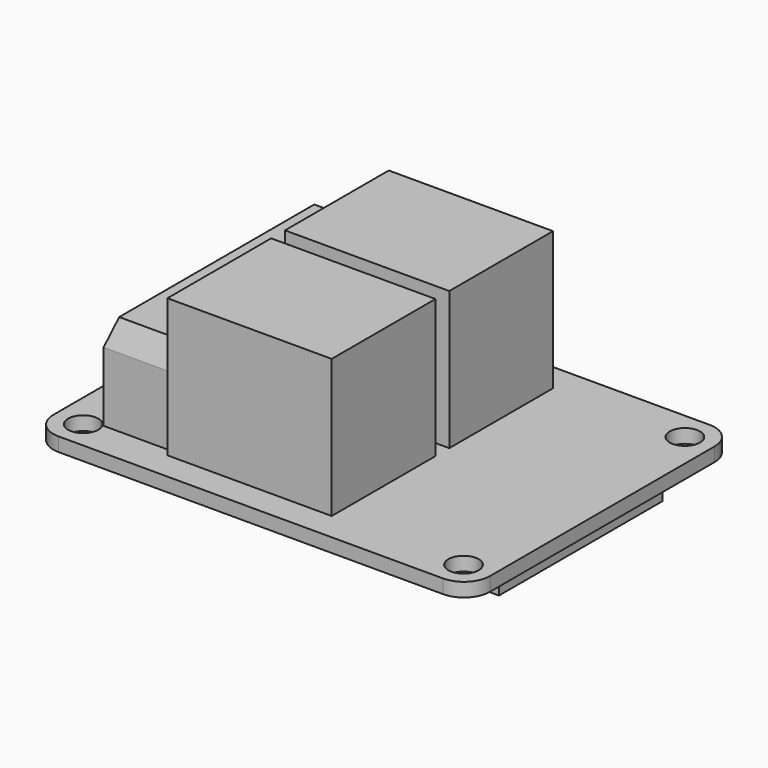
from build123d import *

# Parameters (mm, degrees)
F1_START = 3
F0_W     = 50.5
F0_H     = 38.5
F0_R     = 1.75
F1_DEPTH = 1.6
F2_R     = 3
F3_W     = 15.5
F3_H     = 23.6333997347
F4_DEPTH = 3
F5_W     = 19
F5_H     = 15
F6_DEPTH = 16
F5_W_2   = 7.6
F5_H_2   = 30.2
F7_DEPTH = 11
F8_SIZE2 = 3
F8_SIZE  = 1


with BuildPart() as f1:
    # F0 (on Top) → F1 (new body)
    with BuildSketch(Plane.XY.offset(F1_START)):
        with Locations((-2.75, -79.25)):
            Rectangle(F0_W, F0_H)
        with Locations((-24.75, -95.25)):
            Circle(F0_R, mode=Mode.SUBTRACT)
        with Locations((19.25, -95.25)):
            Circle(F0_R, mode=Mode.SUBTRACT)
        with Locations((-24.75, -63.25)):
            Circle(F0_R, mode=Mode.SUBTRACT)
        with Locations((19.25, -63.25)):
            Circle(F0_R, mode=Mode.SUBTRACT)
    extrude(amount=F1_DEPTH)

    # F2
    f2_edges = [f1.edges().sort_by_distance(p)[0] for p in [
        (22.5, -98.5, 3.8),
        (22.5, -60, 3.8),
        (-28, -60, 3.8),
        (-28, -98.5, 3.8),
    ]]
    fillet(f2_edges, radius=F2_R)

    # F3 (on face) → F4 (join)
    with BuildSketch(Plane(origin=(0, 0, 3), x_dir=(1, 0, 0), z_dir=(0, 0, -1))):
        Polygon((-20.7735065699, 93.75), (-20.7735065699, 64.75), (4.5, 64.75), (4.5, 67.4333001327), (4.5, 91.0666998673), (4.5, 93.75), align=None)
        with Locations((12.25, 79.25)):
            Rectangle(F3_W, F3_H)
    extrude(amount=F4_DEPTH)

    # F5 (on face) → F6 (join)
    with BuildSketch(Plane.XY.offset(4.6)):
        with Locations((-5.5, -70.75)):
            Rectangle(F5_W, F5_H)
        with Locations((-5.5, -87.75)):
            Rectangle(F5_W, F5_H)
    extrude(amount=F6_DEPTH)

    # F5 (on face) → F7 (join)
    with BuildSketch(Plane.XY.offset(4.6)):
        with Locations((-19.3, -79.25)):
            Rectangle(F5_W_2, F5_H_2)
    extrude(amount=F7_DEPTH)

    # F8
    f8_edges = [f1.edges().sort_by_distance(p)[0] for p in [
        (-23.1, -79.25, 15.6),
        (-19.3, -64.15, 15.6),
        (-19.3, -94.35, 15.6),
        (-15.5, -79.25, 15.6),
    ]]
    f8_side = f1.faces().sort_by_distance((-19.3, -79.25, 15.6))[0]
    chamfer(f8_edges, length=F8_SIZE, length2=F8_SIZE2, reference=f8_side)


solid = f1.part
